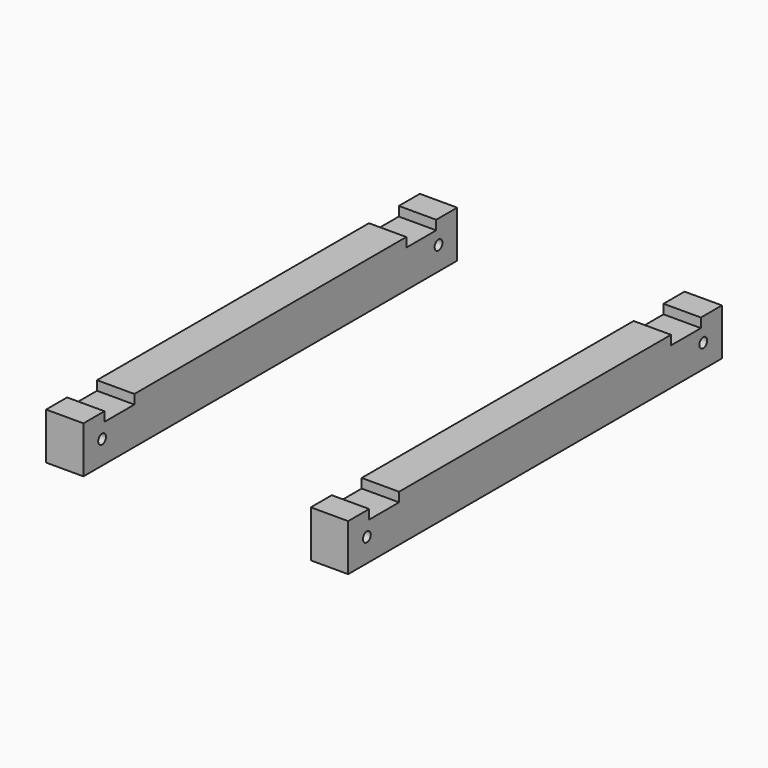
from build123d import *

# Parameters (mm, degrees)
F0_W     = 8
F0_H     = 100
F1_DEPTH = 10
F2_R     = 1.05
F2_W     = 8
F2_H     = 4
F3_DEPTH = 64.6597103341


with BuildPart() as f1:
    # F0 (on Top) → F1 (new body)
    with BuildSketch(Plane.XY):
        with Locations((-28.329355167, 0)):
            Rectangle(F0_W, F0_H)
    extrude(amount=F1_DEPTH)


with BuildPart() as f1b:
    # F0 (on Top) → F1, piece 2 (new body)
    with BuildSketch(Plane.XY):
        with Locations((28.329355167, 0)):
            Rectangle(F0_W, F0_H)
    extrude(amount=F1_DEPTH)


with BuildPart() as f3_tool:
    # F2 (on face) → F3 (new body, through all)
    with BuildSketch(Plane.YZ.offset(32.329355167)):
        with Locations((45, 5)):
            Circle(F2_R)
        with Locations((-45, 5)):
            Circle(F2_R)
        with Locations((40.3785482049, 10)):
            Rectangle(F2_W, F2_H)
        with Locations((-40.3785482049, 10)):
            Rectangle(F2_W, F2_H)
    extrude(amount=-F3_DEPTH)


with BuildPart() as f1_1:
    add(f1.part)

    # F3: cut by f3_tool
    add(f3_tool.part, mode=Mode.SUBTRACT)


with BuildPart() as f1b_1:
    add(f1b.part)

    # F3: cut by f3_tool
    add(f3_tool.part, mode=Mode.SUBTRACT)


with BuildPart() as f5_1:
    # F5: instance of F1b
    add(f1b_1.part.mirror(Plane.YZ))


solid = Compound([f1b_1.part, f5_1.part])
